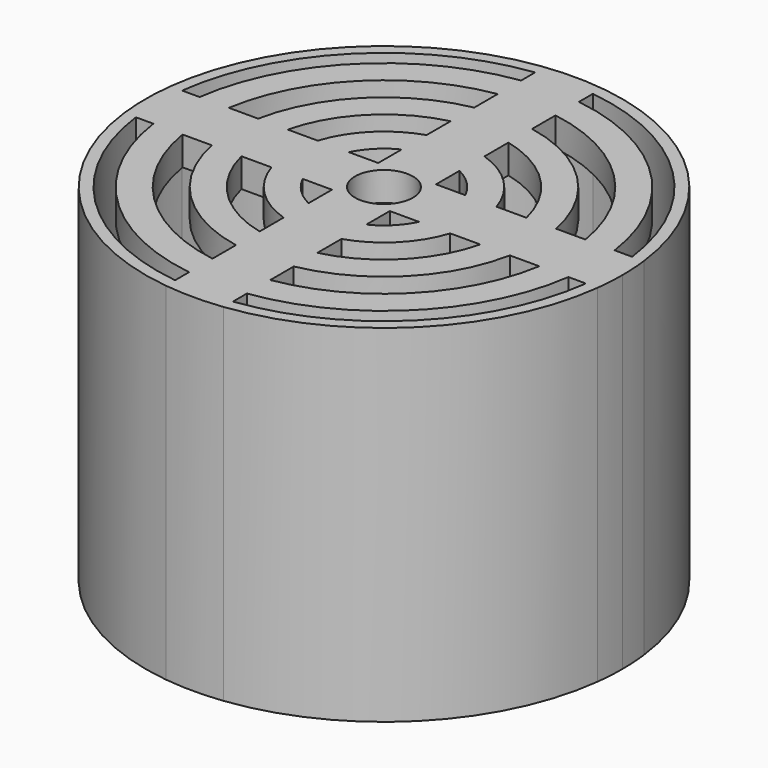
from build123d import *

# Parameters (mm, degrees)
F0_R     = 1
F3_DEPTH = 1
F4_DEPTH = 12
F2_R     = 7.92
F2_R_2   = 7.12
F5_DEPTH = 0.2
F6_DEPTH = 2


with BuildPart() as f3:
    # F0 (on Top) → F3 (new body)
    with BuildSketch(Plane.XY):
        with BuildLine():
            Line((-1, 7.7860452092), (-1, 7.1807033082))
            ThreePointArc((-1, 7.1807033082), (-5.1265241636, 5.1265241636), (-7.1807033082, 1))
            Line((-7.1807033082, 1), (-7.7860452092, 1))
            ThreePointArc((-7.7860452092, 1), (-7.85, 0), (-7.7860452092, -1))
            Line((-7.7860452092, -1), (-7.1807033082, -1))
            ThreePointArc((-7.1807033082, -1), (-5.1265241636, -5.1265241636), (-1, -7.1807033082))
            Line((-1, -7.1807033082), (-1, -7.7860452092))
            ThreePointArc((-1, -7.7860452092), (0, -7.85), (1, -7.7860452092))
            Line((1, -7.7860452092), (1, -7.1807033082))
            ThreePointArc((1, -7.1807033082), (5.1265241636, -5.1265241636), (7.1807033082, -1))
            Line((7.1807033082, -1), (7.7860452092, -1))
            ThreePointArc((7.7860452092, -1), (7.8339949864, -0.5010215103), (7.85, 0))
            ThreePointArc((7.85, 0), (7.8339949864, 0.5010215103), (7.7860452092, 1))
            Line((7.7860452092, 1), (7.1807033082, 1))
            ThreePointArc((7.1807033082, 1), (5.1265241636, 5.1265241636), (1, 7.1807033082))
            Line((1, 7.1807033082), (1, 7.7860452092))
            ThreePointArc((1, 7.7860452092), (0, 7.85), (-1, 7.7860452092))
        make_face()
        with BuildLine():
            Line((-6.1694813396, -1), (-5.153882032, -1))
            ThreePointArc((-5.153882032, -1), (-3.7123106012, -3.7123106012), (-1, -5.153882032))
            Line((-1, -5.153882032), (-1, -6.1694813396))
            ThreePointArc((-1, -6.1694813396), (-4.4194173824, -4.4194173824), (-6.1694813396, -1))
        make_face(mode=Mode.SUBTRACT)
        with BuildLine():
            ThreePointArc((-1, -4.1306779105), (-3.00520382, -3.00520382), (-4.1306779105, -1))
            Line((-4.1306779105, -1), (-3.0923292192, -1))
            ThreePointArc((-3.0923292192, -1), (-2.2980970389, -2.2980970389), (-1, -3.0923292192))
            Line((-1, -3.0923292192), (-1, -4.1306779105))
        make_face(mode=Mode.SUBTRACT)
        with BuildLine():
            ThreePointArc((-1, -2.0155644371), (-1.5909902577, -1.5909902577), (-2.0155644371, -1))
            Line((-2.0155644371, -1), (-1, -1))
            Line((-1, -1), (-1, -2.0155644371))
        make_face(mode=Mode.SUBTRACT)
        with BuildLine():
            ThreePointArc((6.1694813396, -1), (4.4194173824, -4.4194173824), (1, -6.1694813396))
            Line((1, -6.1694813396), (1, -5.153882032))
            ThreePointArc((1, -5.153882032), (3.7123106012, -3.7123106012), (5.153882032, -1))
            Line((5.153882032, -1), (6.1694813396, -1))
        make_face(mode=Mode.SUBTRACT)
        with BuildLine():
            Line((3.0923292192, -1), (4.1306779105, -1))
            ThreePointArc((4.1306779105, -1), (3.00520382, -3.00520382), (1, -4.1306779105))
            Line((1, -4.1306779105), (1, -3.0923292192))
            ThreePointArc((1, -3.0923292192), (2.2980970389, -2.2980970389), (3.0923292192, -1))
        make_face(mode=Mode.SUBTRACT)
        with BuildLine():
            Line((1, -1), (2.0155644371, -1))
            ThreePointArc((2.0155644371, -1), (1.5909902577, -1.5909902577), (1, -2.0155644371))
            Line((1, -2.0155644371), (1, -1))
        make_face(mode=Mode.SUBTRACT)
        with BuildLine():
            ThreePointArc((-2.0155644371, 1), (-1.5909902577, 1.5909902577), (-1, 2.0155644371))
            Line((-1, 2.0155644371), (-1, 1))
            Line((-1, 1), (-2.0155644371, 1))
        make_face(mode=Mode.SUBTRACT)
        with BuildLine():
            ThreePointArc((-1, 3.0923292192), (-2.2980970389, 2.2980970389), (-3.0923292192, 1))
            Line((-3.0923292192, 1), (-4.1306779105, 1))
            ThreePointArc((-4.1306779105, 1), (-3.00520382, 3.00520382), (-1, 4.1306779105))
            Line((-1, 4.1306779105), (-1, 3.0923292192))
        make_face(mode=Mode.SUBTRACT)
        with BuildLine():
            ThreePointArc((-6.1694813396, 1), (-4.4194173824, 4.4194173824), (-1, 6.1694813396))
            Line((-1, 6.1694813396), (-1, 5.153882032))
            ThreePointArc((-1, 5.153882032), (-3.7123106012, 3.7123106012), (-5.153882032, 1))
            Line((-5.153882032, 1), (-6.1694813396, 1))
        make_face(mode=Mode.SUBTRACT)
        Circle(F0_R, mode=Mode.SUBTRACT)
        with BuildLine():
            ThreePointArc((1, 2.0155644371), (1.5909902577, 1.5909902577), (2.0155644371, 1))
            Line((2.0155644371, 1), (1, 1))
            Line((1, 1), (1, 2.0155644371))
        make_face(mode=Mode.SUBTRACT)
        with BuildLine():
            Line((4.1306779105, 1), (3.0923292192, 1))
            ThreePointArc((3.0923292192, 1), (2.2980970389, 2.2980970389), (1, 3.0923292192))
            Line((1, 3.0923292192), (1, 4.1306779105))
            ThreePointArc((1, 4.1306779105), (3.00520382, 3.00520382), (4.1306779105, 1))
        make_face(mode=Mode.SUBTRACT)
        with BuildLine():
            Line((1, 5.153882032), (1, 6.1694813396))
            ThreePointArc((1, 6.1694813396), (4.4194173824, 4.4194173824), (6.1694813396, 1))
            Line((6.1694813396, 1), (5.153882032, 1))
            ThreePointArc((5.153882032, 1), (3.7123106012, 3.7123106012), (1, 5.153882032))
        make_face(mode=Mode.SUBTRACT)
    extrude(amount=-F3_DEPTH)

    # F0 (on Top) → F4 (join)
    with BuildSketch(Plane.XY):
        with BuildLine():
            ThreePointArc((8.1891696771, -1), (8.234778377, -0.5009242278), (8.25, 0))
            ThreePointArc((8.25, 0), (8.234778377, 0.5009242278), (8.1891696771, 1))
            Line((8.1891696771, 1), (8.1891696771, -1))
        make_face()
        with BuildLine():
            Line((8.1891696771, -1), (8.1891696771, 1))
            ThreePointArc((8.1891696771, 1), (0, 8.25), (-8.1891696771, 1))
            Line((-8.1891696771, 1), (-8.1891696771, -1))
            ThreePointArc((-8.1891696771, -1), (-5.8336309448, -5.8336309448), (-1, -8.1891696771))
            Line((-1, -8.1891696771), (1, -8.1891696771))
            ThreePointArc((1, -8.1891696771), (5.8336309448, -5.8336309448), (8.1891696771, -1))
        make_face()
        with BuildLine():
            ThreePointArc((-7.7860452092, 1), (-5.5507882323, 5.5507882323), (-1, 7.7860452092))
            ThreePointArc((-1, 7.7860452092), (0, 7.85), (1, 7.7860452092))
            ThreePointArc((1, 7.7860452092), (5.5507882323, 5.5507882323), (7.7860452092, 1))
            ThreePointArc((7.7860452092, 1), (7.8339949864, 0.5010215103), (7.85, 0))
            ThreePointArc((7.85, 0), (7.8339949864, -0.5010215103), (7.7860452092, -1))
            ThreePointArc((7.7860452092, -1), (5.5507882323, -5.5507882323), (1, -7.7860452092))
            ThreePointArc((1, -7.7860452092), (0, -7.85), (-1, -7.7860452092))
            ThreePointArc((-1, -7.7860452092), (-5.5507882323, -5.5507882323), (-7.7860452092, -1))
            ThreePointArc((-7.7860452092, -1), (-7.85, 0), (-7.7860452092, 1))
        make_face(mode=Mode.SUBTRACT)
        with BuildLine():
            Line((-8.1891696771, -1), (-8.1891696771, 1))
            ThreePointArc((-8.1891696771, 1), (-8.25, 0), (-8.1891696771, -1))
        make_face()
        with BuildLine():
            ThreePointArc((-1, -8.1891696771), (0, -8.25), (1, -8.1891696771))
            Line((1, -8.1891696771), (-1, -8.1891696771))
        make_face()
    extrude(amount=-F4_DEPTH)

    # F2 (on offset) → F5 (join)
    with BuildSketch(Plane.XY.offset(-11)):
        Circle(F2_R)
        Circle(F2_R_2, mode=Mode.SUBTRACT)
        Circle(F2_R_2)
        with BuildLine():
            add(Edge.make_bspline(
                [(-4.4, -0.4), (-4.1333333333, -0.4), (-3.8666666667, -0.4), (-3.6, -0.4)],
                knots=[0, 0, 0, 0, 1, 1, 1, 1], degree=3))
            add(Edge.make_bspline(
                [(-4.4, -0.4), (-4.4, -0.1333333333), (-4.4, 0.1333333333), (-4.4, 0.4)],
                knots=[0, 0, 0, 0, 1, 1, 1, 1], degree=3))
            add(Edge.make_bspline(
                [(-4.4, 0.4), (-4.1333333333, 0.4), (-3.8666666667, 0.4), (-3.6, 0.4)],
                knots=[0, 0, 0, 0, 1, 1, 1, 1], degree=3))
            add(Edge.make_bspline(
                [(-3.6, -0.4), (-3.6, -0.1333333333), (-3.6, 0.1333333333), (-3.6, 0.4)],
                knots=[0, 0, 0, 0, 1, 1, 1, 1], degree=3))
        make_face(mode=Mode.SUBTRACT)
        with BuildLine():
            add(Edge.make_bspline(
                [(4.4, -0.4), (4.1333333333, -0.4), (3.8666666667, -0.4), (3.6, -0.4)],
                knots=[0, 0, 0, 0, 1, 1, 1, 1], degree=3))
            add(Edge.make_bspline(
                [(3.6, -0.4), (3.6, -0.1333333333), (3.6, 0.1333333333), (3.6, 0.4)],
                knots=[0, 0, 0, 0, 1, 1, 1, 1], degree=3))
            add(Edge.make_bspline(
                [(4.4, 0.4), (4.1333333333, 0.4), (3.8666666667, 0.4), (3.6, 0.4)],
                knots=[0, 0, 0, 0, 1, 1, 1, 1], degree=3))
            add(Edge.make_bspline(
                [(4.4, -0.4), (4.4, -0.1333333333), (4.4, 0.1333333333), (4.4, 0.4)],
                knots=[0, 0, 0, 0, 1, 1, 1, 1], degree=3))
        make_face(mode=Mode.SUBTRACT)
    extrude(amount=-F5_DEPTH)

    # F2 (on offset) → F6 (join)
    with BuildSketch(Plane.XY.offset(-11)):
        with BuildLine():
            add(Edge.make_bspline(
                [(-4.4, -0.4), (-4.4, -0.1333333333), (-4.4, 0.1333333333), (-4.4, 0.4)],
                knots=[0, 0, 0, 0, 1, 1, 1, 1], degree=3))
            add(Edge.make_bspline(
                [(-4.4, -0.4), (-4.1333333333, -0.4), (-3.8666666667, -0.4), (-3.6, -0.4)],
                knots=[0, 0, 0, 0, 1, 1, 1, 1], degree=3))
            add(Edge.make_bspline(
                [(-3.6, -0.4), (-3.6, -0.1333333333), (-3.6, 0.1333333333), (-3.6, 0.4)],
                knots=[0, 0, 0, 0, 1, 1, 1, 1], degree=3))
            add(Edge.make_bspline(
                [(-4.4, 0.4), (-4.1333333333, 0.4), (-3.8666666667, 0.4), (-3.6, 0.4)],
                knots=[0, 0, 0, 0, 1, 1, 1, 1], degree=3))
        make_face()
        with BuildLine():
            add(Edge.make_bspline(
                [(3.6, -0.4), (3.6, -0.1333333333), (3.6, 0.1333333333), (3.6, 0.4)],
                knots=[0, 0, 0, 0, 1, 1, 1, 1], degree=3))
            add(Edge.make_bspline(
                [(4.4, -0.4), (4.1333333333, -0.4), (3.8666666667, -0.4), (3.6, -0.4)],
                knots=[0, 0, 0, 0, 1, 1, 1, 1], degree=3))
            add(Edge.make_bspline(
                [(4.4, -0.4), (4.4, -0.1333333333), (4.4, 0.1333333333), (4.4, 0.4)],
                knots=[0, 0, 0, 0, 1, 1, 1, 1], degree=3))
            add(Edge.make_bspline(
                [(4.4, 0.4), (4.1333333333, 0.4), (3.8666666667, 0.4), (3.6, 0.4)],
                knots=[0, 0, 0, 0, 1, 1, 1, 1], degree=3))
        make_face()
    extrude(amount=-F6_DEPTH)


solid = f3.part
